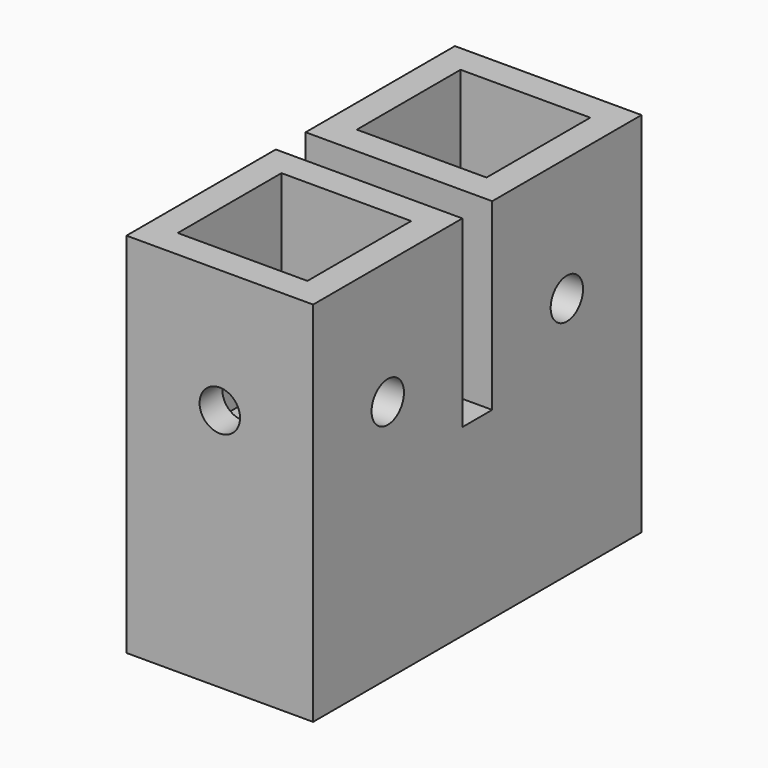
from build123d import *

# Parameters (mm, degrees)
F0_W      = 14.75
F0_H      = 14.75
F0_W_2    = 10.25
F0_H_2    = 10.25
F1_DEPTH  = 14.5200116
F2_W      = 14.75
F2_H      = 14.75
F2_W_2    = 10.25
F2_H_2    = 10.25
F3_DEPTH  = 14.5200116
F5_W      = 14.75
F5_H      = 14.5200116
F4_W      = 14.75
F4_H      = 14.5200116
F6_DEPTH  = 17.695037
F7_W      = 14.75
F7_H      = 14.75
F7_W_2    = 10.25
F7_H_2    = 10.25
F8_DEPTH  = 14.5200116
F9_R      = 1.6
F10_DEPTH = 25.4
F11_R     = 1.6
F12_DEPTH = 10
F13_R     = 1.6
F14_DEPTH = 10


with BuildPart() as f1:
    # F0 (on Top) → F1 (new body)
    with BuildSketch(Plane.XY):
        with Locations((5.125, -5.125)):
            Rectangle(F0_W, F0_H)
        with Locations((5.125, -5.125)):
            Rectangle(F0_W_2, F0_H_2, mode=Mode.SUBTRACT)
    extrude(amount=F1_DEPTH)

    # F2 (on face) → F3 (join)
    with BuildSketch(Plane(origin=(0, 0, 0), x_dir=(1, 0, 0), z_dir=(0, 0, -1))):
        with Locations((5.125, 5.125)):
            Rectangle(F2_W, F2_H)
        with Locations((5.125, 5.125)):
            Rectangle(F2_W_2, F2_H_2, mode=Mode.SUBTRACT)
        with Locations((5.125, 5.125)):
            Rectangle(F2_W_2, F2_H_2)
    extrude(amount=F3_DEPTH)

    # F5 (on face) + F4 (on face) → F6 (join)
    with BuildSketch(Plane.XZ.offset(12.5)):
        with Locations((5.125, -7.2600058)):
            Rectangle(F5_W, F5_H)
    with BuildSketch(Plane.XZ.offset(12.5)):
        with Locations((5.125, -7.2600058)):
            Rectangle(F4_W, F4_H)
        Polygon((0, -12.2700116), (0, -2.25), (10.25, -2.25), (10.25, -12.2700116), (10.25, -12.5), (0, -12.5), align=None, mode=Mode.SUBTRACT)
        Polygon((10.25, -2.25), (0, -2.25), (0, -12.2700116), (0, -12.5), (10.25, -12.5), (10.25, -12.2700116), align=None)
    extrude(amount=F6_DEPTH)

    # F7 (on face) → F8 (join)
    with BuildSketch(Plane.XY):
        with Locations((5.125, -22.820037)):
            Rectangle(F7_W, F7_H)
        with Locations((5.125, -22.820037)):
            Rectangle(F7_W_2, F7_H_2, mode=Mode.SUBTRACT)
    extrude(amount=F8_DEPTH)

    # F9 (on face) → F10 (cut)
    with BuildSketch(Plane.YZ.offset(12.5)):
        with Locations((-22.820037, 4.75)):
            Circle(F9_R)
        with Locations((-5.125, 4.75)):
            Circle(F9_R)
    extrude(amount=-F10_DEPTH, mode=Mode.SUBTRACT)

    # F11 (on face) → F12 (cut)
    with BuildSketch(Plane.XZ.offset(30.195037)):
        with Locations((5.125, 4.75)):
            Circle(F11_R)
    extrude(amount=-F12_DEPTH, mode=Mode.SUBTRACT)

    # F13 (on face) → F14 (cut)
    with BuildSketch(Plane(origin=(0, 2.25, 0), x_dir=(-1, 0, 0), z_dir=(0, 1, 0))):
        with Locations((-5.125, 4.75)):
            Circle(F13_R)
    extrude(amount=-F14_DEPTH, mode=Mode.SUBTRACT)


solid = f1.part
